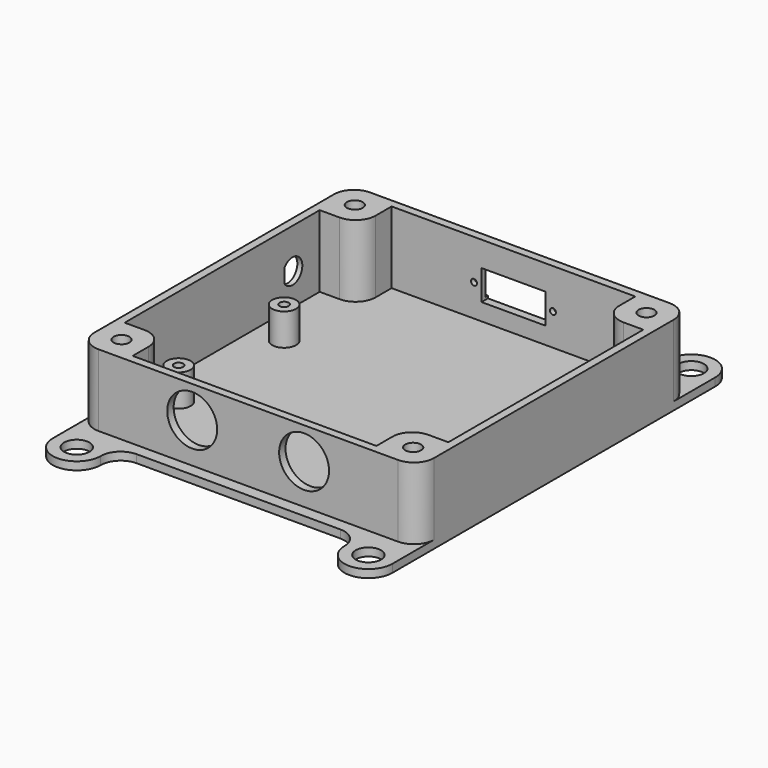
from build123d import *

# Parameters (mm, degrees)
PAD_DEPTH       = 20
POCKET_DEPTH    = 18
SKETCH003_R     = 1.6891
POCKET001_DEPTH = 10
SKETCH005_R     = 1.98
POCKET002_DEPTH = 5
SKETCH006_R     = 3
PAD001_DEPTH    = 8
SKETCH007_R     = 1.15
POCKET003_DEPTH = 7
SKETCH008_R     = 6.25
POCKET004_DEPTH = 5
POCKET008_DEPTH = 5
SKETCH013_R     = 4.40055
POCKET009_DEPTH = 0.75
SKETCH014_R     = 3.175
PAD002_DEPTH    = 2
SKETCH015_W     = 23.5
SKETCH015_H     = 6.3
POCKET010_DEPTH = 0.75
SKETCH016_W     = 16
SKETCH016_H     = 7.5
POCKET011_DEPTH = 5
SKETCH017_R     = 0.75
POCKET012_DEPTH = 5


with BuildPart() as part:
    # Sketch → Pad (new body)
    with BuildSketch(Plane.XY):
        with BuildLine():
            Line((-37.5, 42.5), (37.5, 42.5))
            ThreePointArc((42.5, 37.5), (41.035534, 41.035534), (37.5, 42.5))
            Line((42.5, 37.5), (42.5, -37.5))
            ThreePointArc((37.5, -42.5), (41.035534, -41.035534), (42.5, -37.5))
            Line((37.5, -42.5), (-37.5, -42.5))
            ThreePointArc((-42.5, -37.5), (-41.035534, -41.035534), (-37.5, -42.5))
            Line((-42.5, -37.5), (-42.5, 37.5))
            ThreePointArc((-37.5, 42.5), (-41.035534, 41.035534), (-42.5, 37.5))
        make_face()
    extrude(amount=PAD_DEPTH)

    # Sketch002 (on Face10 of Pad) → Pocket (cut)
    with BuildSketch(Plane.XY.offset(20)):
        with BuildLine():
            Line((-40.5, 30.5), (-40.5, -30.5))
            Line((-40.5, -30.5), (-35.5, -30.5))
            ThreePointArc((-30.5, -35.5), (-31.964466, -31.964466), (-35.5, -30.5))
            Line((-30.5, -35.5), (-30.5, -40.5))
            Line((-30.5, -40.5), (30.5, -40.5))
            Line((30.5, -40.5), (30.5, -35.5))
            ThreePointArc((35.5, -30.5), (31.964466, -31.964466), (30.5, -35.5))
            Line((35.5, -30.5), (40.5, -30.5))
            Line((40.5, -30.5), (40.5, 30.5))
            Line((40.5, 30.5), (35.5, 30.5))
            ThreePointArc((30.5, 35.5), (31.964466, 31.964466), (35.5, 30.5))
            Line((30.5, 35.5), (30.5, 40.5))
            Line((30.5, 40.5), (-30.5, 40.5))
            Line((-30.5, 40.5), (-30.5, 35.5))
            ThreePointArc((-35.5, 30.5), (-31.964466, 31.964466), (-30.5, 35.5))
            Line((-35.5, 30.5), (-40.5, 30.5))
        make_face()
    extrude(amount=-POCKET_DEPTH, mode=Mode.SUBTRACT)

    # Sketch003 (on Face5 of Pocket) → Pocket001 (cut)
    with BuildSketch(Plane.XY.offset(20)):
        with Locations((-36.5, 36.5)):
            Circle(SKETCH003_R)
        with Locations((36.5, 36.5)):
            Circle(SKETCH003_R)
        with Locations((36.5, -36.5)):
            Circle(SKETCH003_R)
        with Locations((-36.5, -36.5)):
            Circle(SKETCH003_R)
    extrude(amount=-POCKET001_DEPTH, mode=Mode.SUBTRACT)

    # Sketch005 (on Face5 of Pocket001) → Pocket002 (cut)
    with BuildSketch(Plane.XY.offset(20)):
        with Locations((-36.5, 36.5)):
            Circle(SKETCH005_R)
        with Locations((-36.5, -36.5)):
            Circle(SKETCH005_R)
        with Locations((36.5, -36.5)):
            Circle(SKETCH005_R)
        with Locations((36.5, 36.5)):
            Circle(SKETCH005_R)
    extrude(amount=-POCKET002_DEPTH, mode=Mode.SUBTRACT)

    # Sketch006 (on Face32 of Pocket002) → Pad001 (join)
    with BuildSketch(Plane.XY.offset(2)):
        with Locations((-33, 10)):
            Circle(SKETCH006_R)
        with Locations((33, 10)):
            Circle(SKETCH006_R)
        with Locations((-33, -23)):
            Circle(SKETCH006_R)
        with Locations((33, -23)):
            Circle(SKETCH006_R)
    extrude(amount=PAD001_DEPTH)

    # Sketch007 (on Face47 of Pad001) → Pocket003 (cut)
    with BuildSketch(Plane.XY.offset(10)):
        with Locations((33, 10)):
            Circle(SKETCH007_R)
        with Locations((33, -23)):
            Circle(SKETCH007_R)
        with Locations((-33, 10)):
            Circle(SKETCH007_R)
        with Locations((-33, -23)):
            Circle(SKETCH007_R)
    extrude(amount=-POCKET003_DEPTH, mode=Mode.SUBTRACT)

    # Sketch008 (on Face6 of Pocket003) → Pocket004 (cut)
    with BuildSketch(Plane.XZ.offset(42.5)):
        with Locations((-14, 12)):
            Circle(SKETCH008_R)
        with Locations((14, 12)):
            Circle(SKETCH008_R)
    extrude(amount=-POCKET004_DEPTH, mode=Mode.SUBTRACT)

    # Sketch012 → Pocket008 (cut)
    with BuildSketch(Plane(origin=(-42.5, 0, 0), x_dir=(0, -1, 0), z_dir=(-1, 0, 0))):
        with BuildLine():
            ThreePointArc((-19.4346, 11.692486), (-25.0734, 10), (-19.4346, 8.307514))
            Line((-19.4346, 11.692486), (-19.4346, 8.307514))
        make_face()
    extrude(amount=-POCKET008_DEPTH, mode=Mode.SUBTRACT)

    # Sketch013 (on Face1 of Pocket008) → Pocket009 (cut)
    with BuildSketch(Plane(origin=(-42.5, 0, 0), x_dir=(0, -1, 0), z_dir=(-1, 0, 0))):
        with Locations((-22, 10)):
            Circle(SKETCH013_R)
    extrude(amount=-POCKET009_DEPTH, mode=Mode.SUBTRACT)

    # Sketch014 (on Face3 of Pocket009) → Pad002 (join)
    with BuildSketch(Plane(origin=(0, 0, 0), x_dir=(1, 0, 0), z_dir=(0, 0, -1))):
        with BuildLine():
            ThreePointArc((-30.5, 50.5), (-36.5, 56.5), (-42.5, 50.5))
            Line((-42.5, 50.5), (-42.5, -50.5))
            ThreePointArc((-42.5, -50.5), (-36.5, -56.5), (-30.5, -50.5))
            ThreePointArc((-25.5, -45.5), (-29.035534, -46.964466), (-30.5, -50.5))
            Line((-25.5, -45.5), (25.5, -45.5))
            ThreePointArc((30.5, -50.5), (29.035534, -46.964466), (25.5, -45.5))
            ThreePointArc((30.5, -50.5), (36.5, -56.5), (42.5, -50.5))
            Line((42.5, -50.5), (42.5, 50.5))
            ThreePointArc((42.5, 50.5), (36.5, 56.5), (30.5, 50.5))
            ThreePointArc((25.5, 45.5), (29.035534, 46.964466), (30.5, 50.5))
            Line((-25.5, 45.5), (25.5, 45.5))
            ThreePointArc((-30.5, 50.5), (-29.035534, 46.964466), (-25.5, 45.5))
        make_face()
        with Locations((-36.5, -50.5)):
            Circle(SKETCH014_R, mode=Mode.SUBTRACT)
        with Locations((36.5, -50.5)):
            Circle(SKETCH014_R, mode=Mode.SUBTRACT)
        with Locations((36.5, 50.5)):
            Circle(SKETCH014_R, mode=Mode.SUBTRACT)
        with Locations((-36.5, 50.5)):
            Circle(SKETCH014_R, mode=Mode.SUBTRACT)
    extrude(amount=-PAD002_DEPTH)

    # Sketch015 → Pocket010 (cut)
    with BuildSketch(Plane(origin=(0, 42.5, 0), x_dir=(-1, 0, 0), z_dir=(0, 1, 0))):
        with Locations((0, 10)):
            Rectangle(SKETCH015_W, SKETCH015_H)
    extrude(amount=-POCKET010_DEPTH, mode=Mode.SUBTRACT)

    # Sketch016 (on Face32 of Pocket010) → Pocket011 (cut)
    with BuildSketch(Plane(origin=(0, 42.5, 0), x_dir=(-1, 0, 0), z_dir=(0, 1, 0))):
        with Locations((0, 10)):
            Rectangle(SKETCH016_W, SKETCH016_H)
    extrude(amount=-POCKET011_DEPTH, mode=Mode.SUBTRACT)

    # Sketch017 (on Face77 of Pocket011) → Pocket012 (cut)
    with BuildSketch(Plane(origin=(0, 41.75, 0), x_dir=(-1, 0, 0), z_dir=(0, 1, 0))):
        with Locations((-9.875, 10)):
            Circle(SKETCH017_R)
        with Locations((9.875, 10)):
            Circle(SKETCH017_R)
    extrude(amount=-POCKET012_DEPTH, mode=Mode.SUBTRACT)


solid = part.part
